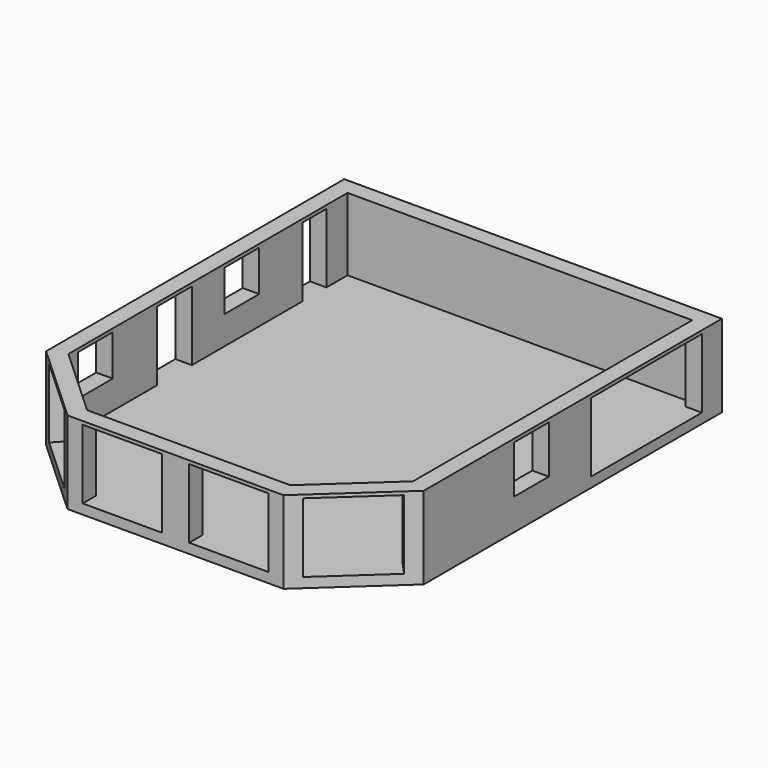
from build123d import *

# Parameters (mm, degrees)
F1_DEPTH  = 76.2
F3_DEPTH  = 635
F4_W      = 1066.8
F4_H      = 533.4
F4_W_2    = 335.28
F4_H_2    = 368.3
F5_DEPTH  = 127
F6_W      = 609.6
F6_H      = 533.4
F7_DEPTH  = 127
F8_W      = 609.6
F8_H      = 533.4
F9_DEPTH  = 127
F10_W     = 609.6
F10_H     = 533.4
F11_DEPTH = 127
F12_W     = 228.6
F12_H     = 533.4
F12_W_2   = 335.28
F12_H_2   = 314.96
F13_DEPTH = 127


with BuildPart() as f1:
    # F0 (on Top) → F1 (new body)
    with BuildSketch(Plane.XY):
        Polygon((0, -2870.2), (0, 0), (-2908.3, 0), (-2908.3, -2870.2), (-2286, -3441.7), (-622.3, -3441.7), align=None)
    extrude(amount=-F1_DEPTH)

    # F2 (on face) → F3 (join)
    with BuildSketch(Plane(origin=(0, 0, -76.2), x_dir=(1, 0, 0), z_dir=(0, 0, -1))):
        Polygon((-2908.3, 2870.2), (-2908.3, 0), (0, 0), (0, 2870.2), (-622.3, 3441.7), (-2286, 3441.7), align=None)
        Polygon((-671.7684459615, 3314.7), (-127, 2814.4024475864), (-127, 127), (-2781.3, 127), (-2781.3, 2814.4024475864), (-2236.5315540385, 3314.7), align=None, mode=Mode.SUBTRACT)
        Polygon((-2908.3, 2870.2), (-2908.3, 0), (0, 0), (0, 2870.2), (-622.3, 3441.7), (-2286, 3441.7), align=None)
        Polygon((-671.7684459615, 3314.7), (-127, 2814.4024475864), (-127, 127), (-2781.3, 127), (-2781.3, 2814.4024475864), (-2236.5315540385, 3314.7), align=None, mode=Mode.SUBTRACT)
    extrude(amount=-F3_DEPTH)

    # F4 (on face) → F5 (cut, through all)
    with BuildSketch(Plane.YZ):
        with Locations((-726.44, 266.7)):
            Rectangle(F4_W, F4_H)
        with Locations((-1833.88, 349.25)):
            Rectangle(F4_W_2, F4_H_2)
    extrude(amount=-F5_DEPTH, mode=Mode.SUBTRACT)

    # F6 (on face) → F7 (cut, through all)
    with BuildSketch(Plane(origin=(1429.9121102576, -1557.0154089471, 0), x_dir=(0.7365298884, 0.6764049996, 0), z_dir=(0.6764049996, -0.7365298884, 0))):
        with Locations((-2364.6856366118, 266.7)):
            Rectangle(F6_W, F6_H)
    extrude(amount=-F7_DEPTH, mode=Mode.SUBTRACT)

    # F8 (on face) → F9 (cut, through all)
    with BuildSketch(Plane.XZ.offset(3441.7)):
        with Locations((-1864.36, 266.7)):
            Rectangle(F8_W, F8_H)
        with Locations((-1043.94, 266.7)):
            Rectangle(F8_W, F8_H)
    extrude(amount=-F9_DEPTH, mode=Mode.SUBTRACT)

    # F10 (on face) → F11 (cut, through all)
    with BuildSketch(Plane(origin=(-2760.528355174, -3005.9086534117, 0), x_dir=(0.7365298884, -0.6764049996, 0), z_dir=(-0.6764049996, -0.7365298884, 0))):
        with Locations((221.00775527, 266.7)):
            Rectangle(F10_W, F10_H)
    extrude(amount=-F11_DEPTH, mode=Mode.SUBTRACT)

    # F12 (on face) → F13 (cut, through all)
    with BuildSketch(Plane(origin=(-2908.3, 0, 0), x_dir=(0, -1, 0), z_dir=(-1, 0, 0))):
        with Locations((444.5, 266.7)):
            Rectangle(F12_W, F12_H)
        with Locations((1145.54, 375.92)):
            Rectangle(F12_W_2, F12_H_2)
        with Locations((1793.24, 266.7)):
            Rectangle(F12_W_2, F12_H)
        with Locations((2555.24, 375.92)):
            Rectangle(F12_W_2, F12_H_2)
    extrude(amount=-F13_DEPTH, mode=Mode.SUBTRACT)


solid = f1.part
